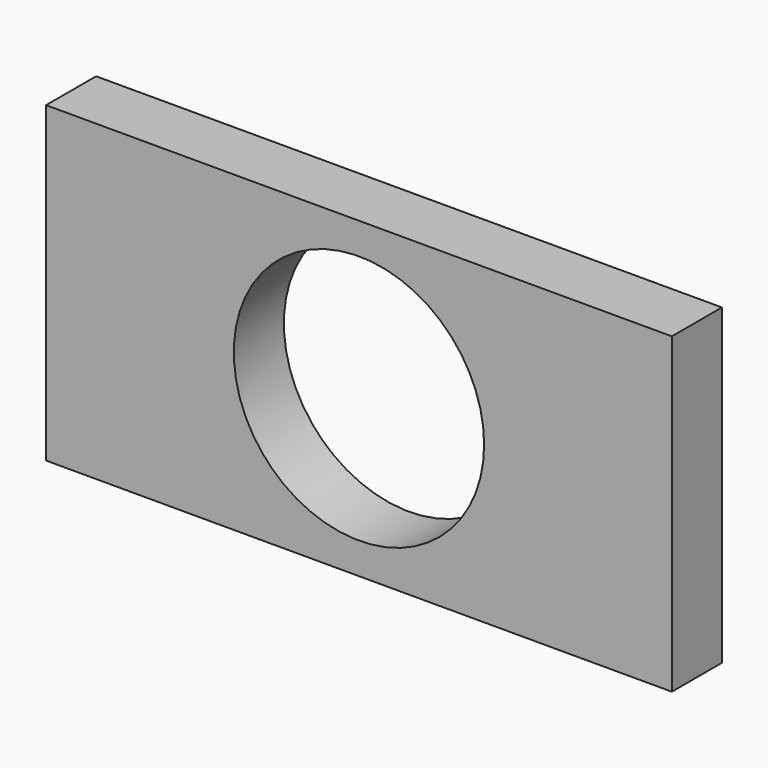
from build123d import *

# Parameters (mm, degrees)
F0_W     = 100
F0_H     = 50
F1_DEPTH = 10
F2_R     = 20
F3_DEPTH = 45


with BuildPart() as f1:
    # F0 (on Front) → F1 (new body)
    with BuildSketch(Plane.XZ):
        Rectangle(F0_W, F0_H)
    extrude(amount=-F1_DEPTH)

    # F2 (on face) → F3 (cut)
    with BuildSketch(Plane.XZ):
        Circle(F2_R)
    extrude(amount=-F3_DEPTH, mode=Mode.SUBTRACT)


solid = f1.part
